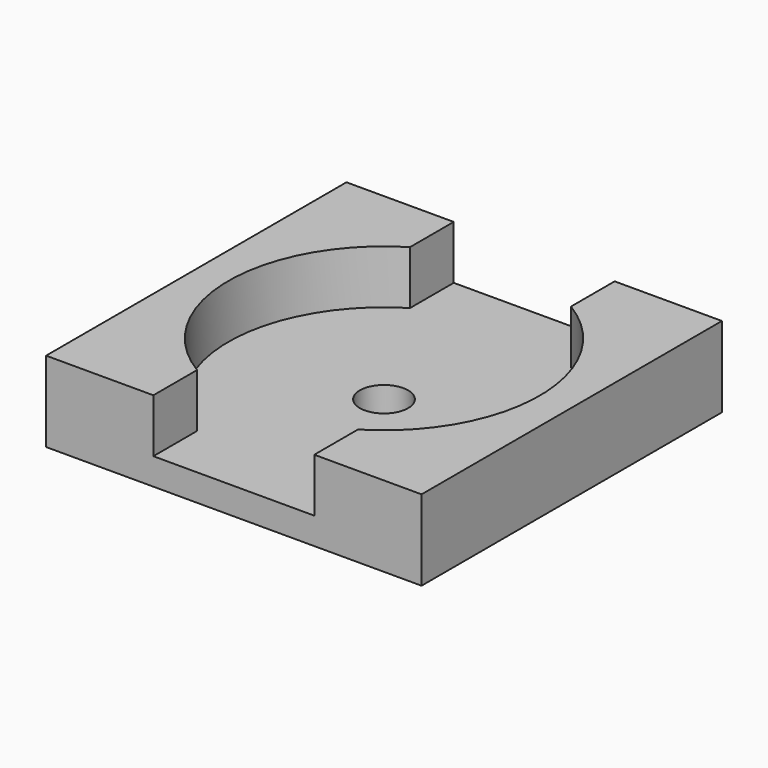
from build123d import *

# Parameters (mm, degrees)
SKETCH_W        = 14
SKETCH_H        = 14
PAD_DEPTH       = 3
SKETCH001_R     = 0.9
POCKET_DEPTH    = 5
POCKET001_DEPTH = 2


with BuildPart() as part:
    # Sketch → Pad (new body)
    with BuildSketch(Plane.XY):
        Rectangle(SKETCH_W, SKETCH_H)
    extrude(amount=PAD_DEPTH)

    # Sketch001 → Pocket (cut)
    with BuildSketch(Plane.XY.offset(3)):
        Circle(SKETCH001_R)
    extrude(amount=-POCKET_DEPTH, mode=Mode.SUBTRACT)

    # Sketch002 → Pocket001 (cut)
    with BuildSketch(Plane.XY.offset(3)):
        with BuildLine():
            Line((-3, 7), (3, 7))
            Line((3, 7), (3, 4.963869))
            ThreePointArc((3, -4.963869), (5.8, 0), (3, 4.963869))
            Line((3, -7), (3, -4.963869))
            Line((-3, -7), (3, -7))
            Line((-3, -7), (-3, -4.963869))
            ThreePointArc((-3, 4.963869), (-5.8, 0), (-3, -4.963869))
            Line((-3, 7), (-3, 4.963869))
        make_face()
    extrude(amount=-POCKET001_DEPTH, mode=Mode.SUBTRACT)


solid = part.part
